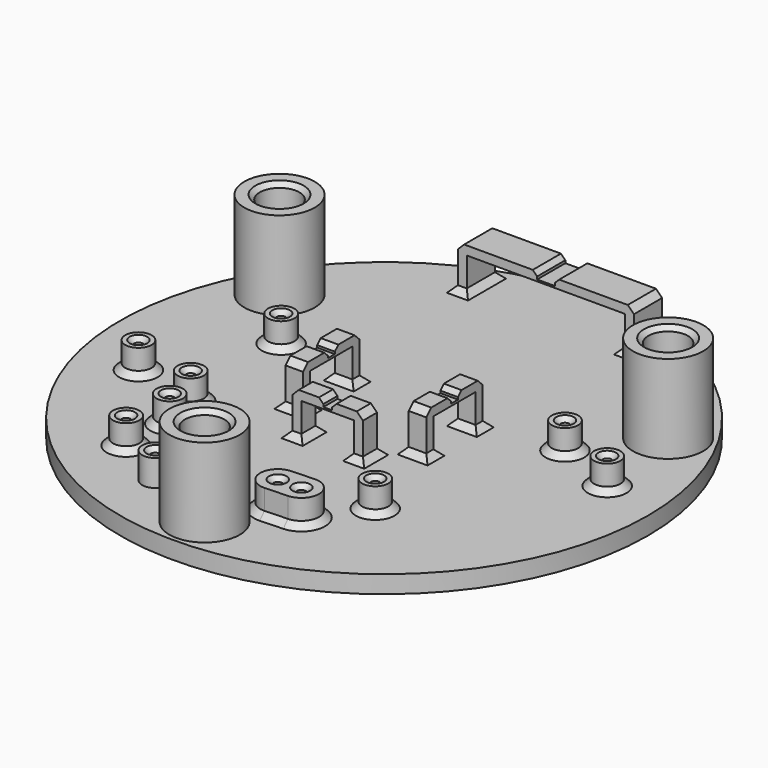
from build123d import *

# Parameters (mm, degrees)
SKETCH_R        = 30
PAD_DEPTH       = 2
SKETCH001_R     = 1.5
SKETCH001_R_2   = 0.5
PAD001_DEPTH    = 3
SKETCH009_R     = 4
PAD004_DEPTH    = 10
SKETCH010_R     = 2.25
POCKET004_DEPTH = 5.5
SKETCH011_R     = 4.25
POCKET005_DEPTH = 0.6
SKETCH012_W     = 20
SKETCH012_H     = 4
SKETCH012_W_2   = 2
SKETCH012_H_2   = 8
SKETCH012_W_3   = 8
SKETCH012_H_3   = 2
PAD005_DEPTH    = 5
SKETCH013_W     = 6
SKETCH013_H     = 4
SKETCH013_W_2   = 1
SKETCH013_H_2   = 0.75
POCKET006_DEPTH = 38.001
SKETCH014_W     = 6
SKETCH014_H     = 4
SKETCH014_W_2   = 1
SKETCH014_H_2   = 0.8
POCKET007_DEPTH = 2
CHAMFER_SIZE    = 0.5
SKETCH015_W     = 18
SKETCH015_H     = 4
SKETCH015_W_2   = 2
SKETCH015_H_2   = 0.8
POCKET008_DEPTH = 4
CHAMFER001_SIZE = 0.5
CHAMFER002_SIZE = 0.7
CHAMFER003_SIZE = 0.5
CHAMFER004_SIZE = 0.5
CHAMFER005_SIZE = 0.7


with BuildPart() as part:
    # Sketch (on DatumPlane) → Pad (new body)
    with BuildSketch(Plane(origin=(0, 0, -16.6), x_dir=(1, 0, 0), z_dir=(0, 0, -1))):
        Circle(SKETCH_R)
    extrude(amount=PAD_DEPTH)

    # Sketch001 (on Face2 of Pad) → Pad001 (join)
    with BuildSketch(Plane.XY.offset(-16.6)):
        with Locations((-16.1, 5.5)):
            Circle(SKETCH001_R)
        with Locations((-16.1, 5.5)):
            Circle(SKETCH001_R_2, mode=Mode.SUBTRACT)
        with Locations((-22.8, -6.4)):
            Circle(SKETCH001_R)
        with Locations((-22.8, -6.4)):
            Circle(SKETCH001_R_2, mode=Mode.SUBTRACT)
        with Locations((-15.5, -8.1)):
            Circle(SKETCH001_R)
        with Locations((-15.5, -8.1)):
            Circle(SKETCH001_R_2, mode=Mode.SUBTRACT)
        with Locations((-14.2, -12.7)):
            Circle(SKETCH001_R)
        with Locations((-14.2, -12.7)):
            Circle(SKETCH001_R_2, mode=Mode.SUBTRACT)
        with Locations((-14.6, -18.4)):
            Circle(SKETCH001_R)
        with Locations((-14.6, -18.4)):
            Circle(SKETCH001_R_2, mode=Mode.SUBTRACT)
        with Locations((-8.4, -22)):
            Circle(SKETCH001_R)
        with Locations((-8.4, -22)):
            Circle(SKETCH001_R_2, mode=Mode.SUBTRACT)
        with Locations((-5.2, -22.7)):
            Circle(SKETCH001_R)
        with Locations((-5.2, -22.7)):
            Circle(SKETCH001_R_2, mode=Mode.SUBTRACT)
        with Locations((10.240525, -14.05962)):
            Circle(SKETCH001_R)
        with Locations((10.240525, -14.05962)):
            Circle(SKETCH001_R_2, mode=Mode.SUBTRACT)
        with Locations((16.4, 5.2)):
            Circle(SKETCH001_R)
        with Locations((16.4, 5.2)):
            Circle(SKETCH001_R_2, mode=Mode.SUBTRACT)
        with Locations((23.6, 2.2)):
            Circle(SKETCH001_R)
        with Locations((23.6, 2.2)):
            Circle(SKETCH001_R_2, mode=Mode.SUBTRACT)
        with BuildLine():
            ThreePointArc((3.523134, -17.601478), (1.601478, -19.676866), (3.676866, -21.598522))
            Line((3.676866, -21.598522), (6.276866, -21.498522))
            ThreePointArc((6.276866, -21.498522), (8.198522, -19.423134), (6.123134, -17.501478))
            Line((3.523134, -17.601478), (6.123134, -17.501478))
        make_face()
        with Locations((3.6, -19.6)):
            Circle(SKETCH001_R_2, mode=Mode.SUBTRACT)
        with Locations((6.2, -19.5)):
            Circle(SKETCH001_R_2, mode=Mode.SUBTRACT)
    extrude(amount=PAD001_DEPTH)

    # Sketch009 (on Face2 of Pad001) → Pad004 (join)
    with BuildSketch(Plane.XY.offset(-16.6)):
        with Locations((22.083648, 12.75)):
            Circle(SKETCH009_R)
        with Locations((-22.083648, 12.75)):
            Circle(SKETCH009_R)
        with Locations((0, -25.5)):
            Circle(SKETCH009_R)
    extrude(amount=PAD004_DEPTH)

    # Sketch010 (on Face34 of Pad004) → Pocket004 (cut)
    with BuildSketch(Plane.XY.offset(-6.6)):
        with Locations((-22.083648, 12.75)):
            Circle(SKETCH010_R)
        with Locations((22.083648, 12.75)):
            Circle(SKETCH010_R)
        with Locations((0, -25.5)):
            Circle(SKETCH010_R)
    extrude(amount=-POCKET004_DEPTH, mode=Mode.SUBTRACT)

    # Sketch011 (on Face3 of Pocket004) → Pocket005 (cut)
    with BuildSketch(Plane(origin=(0, 0, -18.6), x_dir=(1, 0, 0), z_dir=(0, 0, -1))):
        with Locations((0, 21.75)):
            Circle(SKETCH011_R)
        with Locations((18.836053, -10.875)):
            Circle(SKETCH011_R)
        with Locations((-18.836053, -10.875)):
            Circle(SKETCH011_R)
    extrude(amount=-POCKET005_DEPTH, mode=Mode.SUBTRACT)

    # Sketch012 (on Face2 of Pocket005) → Pad005 (join)
    with BuildSketch(Plane.XY.offset(-16.6)):
        with Locations((0, 25)):
            Rectangle(SKETCH012_W, SKETCH012_H)
        with Locations((-7, 0)):
            Rectangle(SKETCH012_W_2, SKETCH012_H_2)
        with Locations((7, 0)):
            Rectangle(SKETCH012_W_2, SKETCH012_H_2)
        with Locations((0, -7)):
            Rectangle(SKETCH012_W_3, SKETCH012_H_3)
    extrude(amount=PAD005_DEPTH)

    # Sketch013 (on Face32 of Pad005) → Pocket006 (cut, through all)
    with BuildSketch(Plane(origin=(8, 0, -16.6), x_dir=(0, -1, 0), z_dir=(1, 0, 0))):
        with Locations((0, -2)):
            Rectangle(SKETCH013_W, SKETCH013_H)
        with Locations((0, -4.625)):
            Rectangle(SKETCH013_W_2, SKETCH013_H_2)
    extrude(amount=-POCKET006_DEPTH, mode=Mode.SUBTRACT)

    # Sketch014 (on Face29 of Pocket006) → Pocket007 (cut)
    with BuildSketch(Plane(origin=(0, -8, -16.6), x_dir=(-1, 0, 0), z_dir=(0, -1, 0))):
        with Locations((0, -2)):
            Rectangle(SKETCH014_W, SKETCH014_H)
        with Locations((0, -4.6)):
            Rectangle(SKETCH014_W_2, SKETCH014_H_2)
    extrude(amount=-POCKET007_DEPTH, mode=Mode.SUBTRACT)

    # Chamfer
    chamfer_edges = [part.edges().sort_by_distance(p)[0] for p in [
        (-7, 0.5, -11.6),
        (-7, -0.5, -11.6),
        (-0.5, -7, -11.6),
        (0.5, -7, -11.6),
        (7, -0.5, -11.6),
        (7, 0.5, -11.6),
    ]]
    chamfer(chamfer_edges, length=CHAMFER_SIZE)

    # Sketch015 (on Face17 of Chamfer) → Pocket008 (cut)
    with BuildSketch(Plane(origin=(0, 23, -16.6), x_dir=(-1, 0, 0), z_dir=(0, -1, 0))):
        with Locations((0, -2)):
            Rectangle(SKETCH015_W, SKETCH015_H)
        with Locations((0, -4.6)):
            Rectangle(SKETCH015_W_2, SKETCH015_H_2)
    extrude(amount=-POCKET008_DEPTH, mode=Mode.SUBTRACT)

    # Chamfer001
    chamfer001_edges = [part.edges().sort_by_distance(p)[0] for p in [
        (-1, 25, -11.6),
        (1, 25, -11.6),
    ]]
    chamfer(chamfer001_edges, length=CHAMFER001_SIZE)

    # Chamfer002
    chamfer002_edges = [part.edges().sort_by_distance(p)[0] for p in [
        (10, 25, -11.6),
        (-10, 25, -11.6),
        (-7, 4, -11.6),
        (-7, -4, -11.6),
        (-4, -7, -11.6),
        (4, -7, -11.6),
        (7, -4, -11.6),
        (7, 4, -11.6),
    ]]
    chamfer(chamfer002_edges, length=CHAMFER002_SIZE)

    # Chamfer003
    chamfer003_edges = [part.edges().sort_by_distance(p)[0] for p in [
        (-24.333648, 12.75, -6.6),
        (19.833648, 12.75, -6.6),
        (-2.25, -25.5, -6.6),
    ]]
    chamfer(chamfer003_edges, length=CHAMFER003_SIZE)

    # Chamfer004
    chamfer004_edges = [part.edges().sort_by_distance(p)[0] for p in [
        (-16.6, 5.5, -13.6),
        (15.9, 5.2, -13.6),
        (23.1, 2.2, -13.6),
        (9.740525, -14.05962, -13.6),
        (5.7, -19.5, -13.6),
        (3.1, -19.6, -13.6),
        (-8.9, -22, -13.6),
        (-5.7, -22.7, -13.6),
        (-15.1, -18.4, -13.6),
        (-14.7, -12.7, -13.6),
        (-16, -8.1, -13.6),
        (-23.3, -6.4, -13.6),
    ]]
    chamfer(chamfer004_edges, length=CHAMFER004_SIZE)

    # Chamfer005
    chamfer005_edges = [part.edges().sort_by_distance(p)[0] for p in [
        (-24.3, -6.4, -16.6),
        (-17.6, 5.5, -16.6),
        (-17, -8.1, -16.6),
        (-15.7, -12.7, -16.6),
        (-16.1, -18.4, -16.6),
        (8.740525, -14.05962, -16.6),
        (14.9, 5.2, -16.6),
        (22.1, 2.2, -16.6),
        (8.198522, -19.423134, -16.6),
        (4, -7, -16.6),
        (7, -4, -16.6),
        (-7, -4, -16.6),
        (3.5, -8, -16.6),
        (-3.5, -8, -16.6),
        (-3, -7, -16.6),
        (7, 3, -16.6),
        (8, 3.5, -16.6),
        (8, -3.5, -16.6),
        (-6, -3.5, -16.6),
        (-6, 3.5, -16.6),
        (-7, 3, -16.6),
        (6, 3.5, -16.6),
        (-8, -3.5, -16.6),
        (-8, 3.5, -16.6),
        (-4, -7, -16.6),
        (3, -7, -16.6),
        (6, -3.5, -16.6),
        (7, -3, -16.6),
        (7, 4, -16.6),
        (-7, 4, -16.6),
        (-7, -3, -16.6),
        (-3.5, -6, -16.6),
        (3.5, -6, -16.6),
        (-9.5, 23, -16.6),
        (-10, 25, -16.6),
        (-9.5, 27, -16.6),
        (-9, 25, -16.6),
        (10, 25, -16.6),
        (9.5, 27, -16.6),
        (9, 25, -16.6),
        (9.5, 23, -16.6),
    ]]
    chamfer(chamfer005_edges, length=CHAMFER005_SIZE)


solid = part.part
